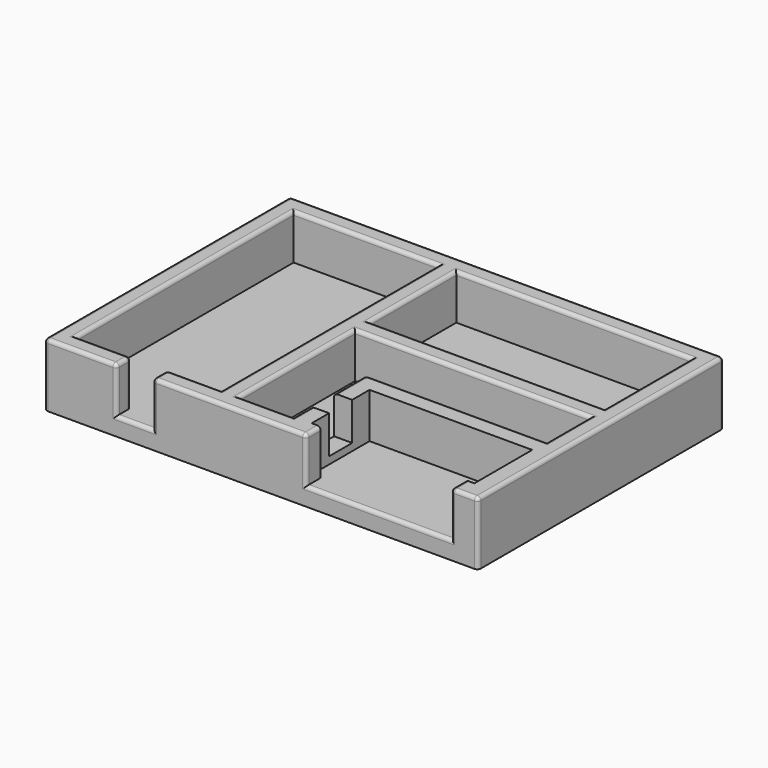
from build123d import *

# Parameters (mm, degrees)
F0_W     = 80
F0_H     = 150
F0_W_2   = 130
F0_H_2   = 60
F1_DEPTH = 25
F2_W     = 240
F2_H     = 170
F3_DEPTH = 10
F4_W     = 20
F4_H     = 25
F5_DEPTH = 10
F6_R     = 2
F7_W     = 16
F7_H     = 21
F8_DEPTH = 10


with BuildPart() as f1:
    # F0 (on Top) → F1 (new body)
    with BuildSketch(Plane.XY):
        Polygon((105, -85), (120, -85), (120, 85), (-120, 85), (-120, -85), (25, -85), (25, -75), (20, -75), (20, -35), (110, -35), (110, -75), (105, -75), align=None)
        Polygon((110, 5), (110, -25), (10, -25), (10, -75), (-20, -75), (-20, -25), (-20, 5), align=None, mode=Mode.SUBTRACT)
        with Locations((-70, 0)):
            Rectangle(F0_W, F0_H, mode=Mode.SUBTRACT)
        with Locations((45, 45)):
            Rectangle(F0_W_2, F0_H_2, mode=Mode.SUBTRACT)
    extrude(amount=F1_DEPTH)

    # F2 (on face) → F3 (join)
    with BuildSketch(Plane(origin=(0, 0, 0), x_dir=(1, 0, 0), z_dir=(0, 0, -1))):
        Rectangle(F2_W, F2_H)
    extrude(amount=F3_DEPTH)

    # F4 (on face) → F5 (cut)
    with BuildSketch(Plane(origin=(0, -75, 0), x_dir=(-1, 0, 0), z_dir=(0, 1, 0))):
        with Locations((70, 12.5)):
            Rectangle(F4_W, F4_H)
    extrude(amount=-F5_DEPTH, mode=Mode.SUBTRACT)

    # F6
    f6_edges = [f1.edges().sort_by_distance(p)[0] for p in [
        (-110, 0, 25),
        (-120, 0, 25),
        (-100, -85, 25),
        (-95, -75, 25),
        (-60, -85, 12.5),
        (-80, -85, 12.5),
        (-80, -75, 12.5),
        (-60, -80, 25),
        (-60, -75, 12.5),
        (-30, 0, 25),
        (-45, -75, 25),
        (-70, -85, 0),
        (-20, -35, 25),
        (60, -25, 25),
        (-5, -75, 25),
        (10, -25, 12.5),
        (10, -50, 25),
        (25, -85, 12.5),
        (-17.5, -85, 25),
        (65, -85, 0),
        (105, -85, 12.5),
        (112.5, -85, 25),
        (120, 0, 25),
        (120, -85, 7.5),
        (-120, -85, 7.5),
        (45, 5, 25),
        (45, 15, 25),
        (-20, 45, 25),
        (-120, 85, 7.5),
        (120, 85, 7.5),
        (0, 85, 25),
        (45, 75, 25),
        (110, 45, 25),
        (110, -10, 25),
        (-80, -80, 25),
        (25, -80, 25),
        (105, -80, 25),
        (-70, 75, 25),
    ]]
    fillet(f6_edges, radius=F6_R)

    # F7 (on face) → F8 (cut)
    with BuildSketch(Plane.YZ.offset(20)):
        with Locations((-55, 14.5)):
            Rectangle(F7_W, F7_H)
    extrude(amount=-F8_DEPTH, mode=Mode.SUBTRACT)


solid = f1.part
